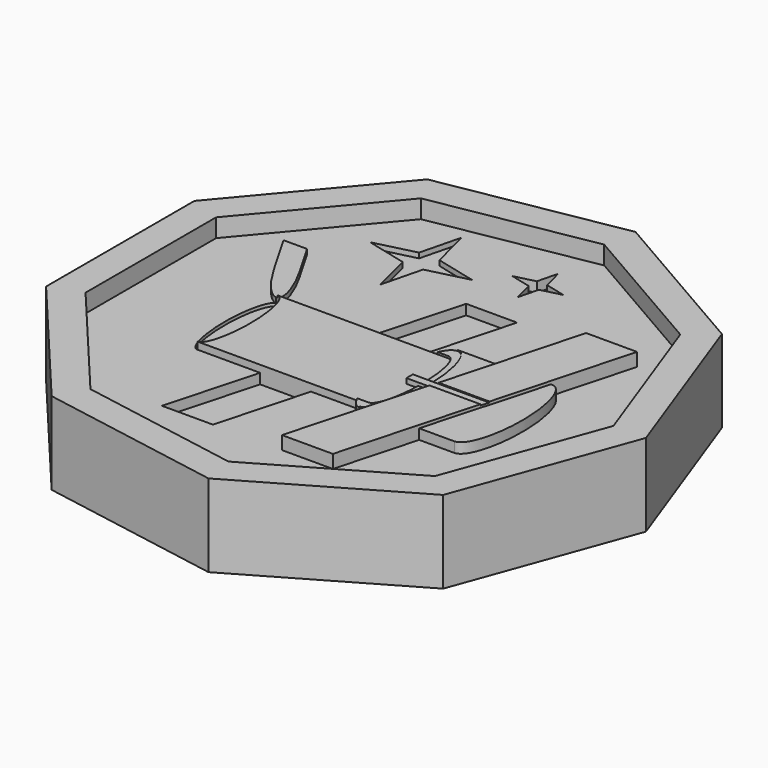
from build123d import *

# Parameters (mm, degrees)
F2_DEPTH  = 6.35
F4_DEPTH  = 2.54
F5_DEPTH  = 1.778
F6_DEPTH  = 1.27
F7_DEPTH  = 3.302
F8_DEPTH  = 3.048
F9_DEPTH  = 0.762
F10_DEPTH = 2.54
F11_DEPTH = 2.286
F14_DEPTH = 4.572
F15_DEPTH = 1.27
F17_DEPTH = 2.54
F18_DEPTH = 5.08
F20_DEPTH = 4.572
F22_DEPTH = 2.54
F23_DEPTH = 1.524
F25_DEPTH = 1.27
F26_DEPTH = 0.3556
F27_DEPTH = 0.635
F24_R     = 1.8594849194
F24_R_2   = 1.5216948933
F24_R_3   = 3.4180664258
F24_R_4   = 1.7040615752
F28_DEPTH = 3.81


with BuildPart() as f2:
    # F1 (on face) → F2 (new body)
    with BuildSketch(Plane.XY):
        Polygon((-33.7876442761, 58.5219165543), (-63.5, 23.1121098759), (-63.5, -23.1121098759), (-33.7876442761, -58.5219165543), (11.7343257124, -66.5486680783), (51.7656742876, -43.4365582024), (67.5752885522, 0), (51.7656742876, 43.4365582024), (11.7343257124, 66.5486680783), align=None)
        Polygon((-30.7581871748, -53.2747429355), (-57.8064830338, -21.0398391719), (-57.8064830338, 21.0398391719), (-30.7581871748, 53.2747429355), (10.6822063025, 60.5818023967), (47.1242767313, 39.5419632248), (61.5163743496, 0), (47.1242767313, -39.5419632248), (10.6822063025, -60.5818023967), align=None, mode=Mode.SUBTRACT)
        Polygon((-57.8064830338, 21.0398391719), (-57.8064830338, -21.0398391719), (-30.7581871748, -53.2747429355), (10.6822063025, -60.5818023967), (47.1242767313, -39.5419632248), (61.5163743496, 0), (47.1242767313, 39.5419632248), (10.6822063025, 60.5818023967), (-30.7581871748, 53.2747429355), align=None)
    extrude(amount=F2_DEPTH)

    # F3 (on face) → F4 (cut)
    with BuildSketch(Plane.XY.offset(6.35)):
        Polygon((-0.575308688, 29.1460640224), (-6.7951565992, 6.3466439275), (5.9048434008, 6.3466439275), (12.124691312, 29.1460640224), align=None)
        Polygon((-1.0249148999, -18.6374719584), (-13.7249148999, -18.6374719584), (-19.9447628111, -41.4368920532), (-7.2447628111, -41.4368920532), align=None)
    extrude(amount=-F4_DEPTH, mode=Mode.SUBTRACT)

    # F3 (on face) → F5 (join)
    with BuildSketch(Plane.XY.offset(6.35)):
        with BuildLine():
            add(Edge.make_bspline(
                [(-29.3351506789, -18.6374719584), (-26.1137671789, -18.6374719584), (-26.1137671789, -6.1454140154), (-26.1137671789, 6.3466439275), (-29.3351506789, 6.3466439275)],
                knots=[0, 0, 0, 1.5707963268, 1.5707963268, 3.1415926536, 3.1415926536, 3.1415926536], degree=2, weights=[1, 0.7071067812, 1, 0.7071067812, 1]))
            Line((-29.3351506789, -18.6374719584), (-13.7249148999, -18.6374719584))
            Line((-13.7249148999, -18.6374719584), (-1.0249148999, -18.6374719584))
            Line((-1.0249148999, -18.6374719584), (10.5309510918, -18.6374719584))
            Line((10.5309510918, -18.6374719584), (13.2900151665, -18.6374719584))
            add(Edge.make_bspline(
                [(13.2900151665, -18.6374719584), (16.262680817, -18.6374719584), (16.5010272671, -7.1470193138)],
                knots=[0, 0, 0, 1.4905308017, 1.4905308017, 1.4905308017], degree=2, weights=[1, 0.7349079422, 1]))
            Line((16.5010272671, -7.1470193138), (13.5657261126, -7.1470193138))
            Line((13.5657261126, -7.1470193138), (13.5657261126, -5.143808717))
            Line((13.5657261126, -5.143808717), (16.5010272671, -5.143808717))
            add(Edge.make_bspline(
                [(16.5010272671, -5.143808717), (16.262680817, 6.3466439275), (13.2900151665, 6.3466439275)],
                knots=[1.6510618519, 1.6510618519, 1.6510618519, 3.1415926536, 3.1415926536, 3.1415926536], degree=2, weights=[1, 0.7349079422, 1]))
            Line((13.2900151665, 6.3466439275), (10.5309510918, 6.3466439275))
            Line((10.5309510918, 6.3466439275), (5.9048434008, 6.3466439275))
            Line((5.9048434008, 6.3466439275), (-6.7951565992, 6.3466439275))
            Line((-6.7951565992, 6.3466439275), (-29.2752419632, 6.3466439275))
            Line((-29.2752419632, 6.3466439275), (-29.3351506789, 6.3466439275))
        make_face()
    extrude(amount=F5_DEPTH)

    # F3 (on face) → F6 (join)
    with BuildSketch(Plane.XY.offset(6.35)):
        with BuildLine():
            add(Edge.make_bspline(
                [(-29.3351506789, 6.3466439275), (-29.5281965738, 6.3466439275), (-29.7198609079, 6.2572427097)],
                knots=[3.1415926536, 3.1415926536, 3.1415926536, 3.261302278, 3.261302278, 3.261302278], degree=2, weights=[1, 0.9982092355, 1]))
            Line((-29.3351506789, 6.3466439275), (-29.2752419632, 6.3466439275))
            add(Edge.make_bspline(
                [(-29.2752419632, 6.3466439275), (-27.1553323099, 7.7032604551), (-32.8125827953, 17.501905727)],
                knots=[0.0101561284, 0.0101561284, 0.0101561284, 1.5707963268, 1.5707963268, 1.5707963268], degree=2, weights=[1, 0.7106883824, 1]))
            Line((-32.8125827953, 17.501905727), (-37.6961131116, 25.9604283551))
            Line((-37.6961131116, 25.9604283551), (-43.5619918466, 25.9604283551))
            Line((-43.5619918466, 25.9604283551), (-37.2119918466, 14.961905727))
            add(Edge.make_bspline(
                [(-37.2119918466, 14.961905727), (-32.3439342064, 6.53018256), (-29.7198609079, 6.2572427097)],
                knots=[4.7123889804, 4.7123889804, 4.7123889804, 6.1234694248, 6.1234694248, 6.1234694248], degree=2, weights=[1, 0.7612613584, 1]))
        make_face()
    extrude(amount=F6_DEPTH)

    # F3 (on face) → F7 (join)
    with BuildSketch(Plane.XY.offset(6.35)):
        Polygon((29.3351253495, 29.1460640224), (23.8649360521, 9.0945859846), (19.9805982411, -5.143808717), (32.6805982411, -5.143808717), (36.5649360521, 9.0945859846), (42.0351253495, 29.1460640224), align=None)
        Polygon((17.3314778068, -14.4368558845), (16.4729577901, -17.583839348), (15.4358605238, -21.3854140154), (9.9656712264, -41.4368920532), (22.6656712264, -41.4368920532), (28.1358605238, -21.3854140154), (32.0201983348, -7.1470193138), (19.3201983348, -7.1470193138), align=None)
    extrude(amount=F7_DEPTH)

    # F3 (on face) → F8 (join)
    with BuildSketch(Plane.XY.offset(6.35)):
        Polygon((13.5657261126, -7.1470193138), (16.5010272671, -7.1470193138), (18.0963269665, -7.1470193138), (19.3201983348, -7.1470193138), (32.0201983348, -7.1470193138), (32.6805982411, -5.143808717), (19.9805982411, -5.143808717), (18.0963269665, -5.143808717), (16.5010272671, -5.143808717), (13.5657261126, -5.143808717), align=None)
    extrude(amount=F8_DEPTH)

    # F3 (on face) → F9 (cut)
    with BuildSketch(Plane.XY.offset(6.35)):
        with BuildLine():
            add(Edge.make_bspline(
                [(-29.7198609079, 6.2572427097), (-32.7322635067, 4.8521171172), (-32.5507654395, -6.8926774206), (-32.3692673723, -18.6374719584), (-29.3351506789, -18.6374719584)],
                knots=[3.261302278, 3.261302278, 3.261302278, 4.7722437926, 4.7722437926, 6.2831853072, 6.2831853072, 6.2831853072], degree=2, weights=[1, 0.7279488579, 1, 0.7279488579, 1]))
            add(Edge.make_bspline(
                [(-29.3351506789, -18.6374719584), (-26.1137671789, -18.6374719584), (-26.1137671789, -6.1454140154), (-26.1137671789, 6.3466439275), (-29.3351506789, 6.3466439275)],
                knots=[0, 0, 0, 1.5707963268, 1.5707963268, 3.1415926536, 3.1415926536, 3.1415926536], degree=2, weights=[1, 0.7071067812, 1, 0.7071067812, 1]))
            add(Edge.make_bspline(
                [(-29.3351506789, 6.3466439275), (-29.5281965738, 6.3466439275), (-29.7198609079, 6.2572427097)],
                knots=[3.1415926536, 3.1415926536, 3.1415926536, 3.261302278, 3.261302278, 3.261302278], degree=2, weights=[1, 0.9982092355, 1]))
        make_face()
    extrude(amount=-F9_DEPTH, mode=Mode.SUBTRACT)

    # F3 (on face) → F10 (join)
    with BuildSketch(Plane.XY.offset(6.35)):
        with BuildLine():
            Line((23.8649360521, 9.0945859846), (13.2900151665, 9.0945859846))
            add(Edge.make_bspline(
                [(18.0963269665, -5.143808717), (17.7999260089, 9.0945859846), (13.2900151665, 9.0945859846)],
                knots=[1.6365658648, 1.6365658648, 1.6365658648, 3.1415926536, 3.1415926536, 3.1415926536], degree=2, weights=[1, 0.7299733325, 1]))
            Line((18.0963269665, -5.143808717), (19.9805982411, -5.143808717))
            Line((19.9805982411, -5.143808717), (23.8649360521, 9.0945859846))
        make_face()
        with BuildLine():
            Line((32.6805982411, -5.143808717), (32.0201983348, -7.1470193138))
            Line((32.0201983348, -7.1470193138), (28.1358605238, -21.3854140154))
            Line((28.1358605238, -21.3854140154), (36.9153190381, -21.3854140154))
            add(Edge.make_bspline(
                [(36.9153190381, -21.3854140154), (41.7320447752, -21.3854140154), (41.7320447752, -6.1454140154), (41.7320447752, 9.0945859846), (36.9153190381, 9.0945859846)],
                knots=[0, 0, 0, 1.5707963268, 1.5707963268, 3.1415926536, 3.1415926536, 3.1415926536], degree=2, weights=[1, 0.7071067812, 1, 0.7071067812, 1]))
            Line((36.9153190381, 9.0945859846), (36.5649360521, 9.0945859846))
            Line((36.5649360521, 9.0945859846), (32.6805982411, -5.143808717))
        make_face()
        with BuildLine():
            add(Edge.make_bspline(
                [(17.3314778068, -14.4368558845), (18.0138914686, -11.1070239191), (18.0963269665, -7.1470193138)],
                knots=[0.9955304831, 0.9955304831, 0.9955304831, 1.5050267888, 1.5050267888, 1.5050267888], degree=2, weights=[1, 0.9677267923, 1]))
            Line((17.3314778068, -14.4368558845), (19.3201983348, -7.1470193138))
            Line((19.3201983348, -7.1470193138), (18.0963269665, -7.1470193138))
        make_face()
        with BuildLine():
            add(Edge.make_bspline(
                [(13.2900151665, -21.3854140154), (15.1082651186, -21.3854140154), (16.4729577901, -17.583839348)],
                knots=[0, 0, 0, 0.7218980307, 0.7218980307, 0.7218980307], degree=2, weights=[1, 0.9355620886, 1]))
            Line((13.2900151665, -21.3854140154), (15.4358605238, -21.3854140154))
            Line((15.4358605238, -21.3854140154), (16.4729577901, -17.583839348))
        make_face()
    extrude(amount=F10_DEPTH)

    # F3 (on face) → F11 (join)
    with BuildSketch(Plane.XY.offset(6.35)):
        with BuildLine():
            Line((13.2900151665, -18.6374719584), (10.5309510918, -18.6374719584))
            add(Edge.make_bspline(
                [(10.5309510918, -18.6374719584), (11.7737866708, -21.3854140154), (13.2900151665, -21.3854140154)],
                knots=[5.6732565726, 5.6732565726, 5.6732565726, 6.2831853072, 6.2831853072, 6.2831853072], degree=2, weights=[1, 0.9538576522, 1]))
            add(Edge.make_bspline(
                [(13.2900151665, -21.3854140154), (15.1082651186, -21.3854140154), (16.4729577901, -17.583839348)],
                knots=[0, 0, 0, 0.7218980307, 0.7218980307, 0.7218980307], degree=2, weights=[1, 0.9355620886, 1]))
            Line((16.4729577901, -17.583839348), (17.3314778068, -14.4368558845))
            add(Edge.make_bspline(
                [(17.3314778068, -14.4368558845), (18.0138914686, -11.1070239191), (18.0963269665, -7.1470193138)],
                knots=[0.9955304831, 0.9955304831, 0.9955304831, 1.5050267888, 1.5050267888, 1.5050267888], degree=2, weights=[1, 0.9677267923, 1]))
            Line((18.0963269665, -7.1470193138), (16.5010272671, -7.1470193138))
            add(Edge.make_bspline(
                [(13.2900151665, -18.6374719584), (16.262680817, -18.6374719584), (16.5010272671, -7.1470193138)],
                knots=[0, 0, 0, 1.4905308017, 1.4905308017, 1.4905308017], degree=2, weights=[1, 0.7349079422, 1]))
        make_face()
        with BuildLine():
            add(Edge.make_bspline(
                [(13.2900151665, 9.0945859846), (11.7737866708, 9.0945859846), (10.5309510918, 6.3466439275)],
                knots=[3.1415926536, 3.1415926536, 3.1415926536, 3.7515213882, 3.7515213882, 3.7515213882], degree=2, weights=[1, 0.9538576522, 1]))
            Line((10.5309510918, 6.3466439275), (13.2900151665, 6.3466439275))
            add(Edge.make_bspline(
                [(16.5010272671, -5.143808717), (16.262680817, 6.3466439275), (13.2900151665, 6.3466439275)],
                knots=[1.6510618519, 1.6510618519, 1.6510618519, 3.1415926536, 3.1415926536, 3.1415926536], degree=2, weights=[1, 0.7349079422, 1]))
            Line((16.5010272671, -5.143808717), (18.0963269665, -5.143808717))
            add(Edge.make_bspline(
                [(18.0963269665, -5.143808717), (17.7999260089, 9.0945859846), (13.2900151665, 9.0945859846)],
                knots=[1.6365658648, 1.6365658648, 1.6365658648, 3.1415926536, 3.1415926536, 3.1415926536], degree=2, weights=[1, 0.7299733325, 1]))
        make_face()
    extrude(amount=F11_DEPTH)

    # F13 (on face) → F14 (join)
    with BuildSketch(Plane.XY.offset(6.35)):
        Polygon((-63.5, 23.1121098759), (-63.5, -23.1121098759), (-33.7876442761, -58.5219165543), (11.7343257124, -66.5486680783), (51.7656742876, -43.4365582024), (67.5752885522, 0), (51.7656742876, 43.4365582024), (11.7343257124, 66.5486680783), (-33.7876442761, 58.5219165543), align=None)
        Polygon((-29.733126963, -51.4992865678), (-55.88, -20.3386566908), (-55.88, 20.3386566908), (-29.733126963, 51.4992865678), (10.3262066269, 58.5628279089), (45.5537933731, 38.2241712181), (59.466253926, 0), (45.5537933731, -38.2241712181), (10.3262066269, -58.5628279089), align=None, mode=Mode.SUBTRACT)
    extrude(amount=F14_DEPTH)

    # F12 (on face) → F15 (cut)
    with BuildSketch(Plane.XY.offset(6.35)):
        Polygon((-16.1347627026, 40.2687636828), (-18.6747627026, 50.4287636828), (-21.2147627026, 40.2687636828), (-31.3747627026, 37.7287636828), (-21.2147627026, 35.1887636828), (-18.6747627026, 25.0287636828), (-16.1347627026, 35.1887636828), (-5.9747627026, 37.7287636828), align=None)
    extrude(amount=-F15_DEPTH, mode=Mode.SUBTRACT)

    # F16 (on face) → F17 (cut)
    with BuildSketch(Plane.XY.offset(6.35)):
        Polygon((6.7856322196, 45.1514541161), (5.5156322196, 50.2314541161), (4.2456322196, 45.1514541161), (-0.8343677804, 43.8814541161), (4.2456322196, 42.6114541161), (5.5156322196, 37.5314541161), (6.7856322196, 42.6114541161), (11.8656322196, 43.8814541161), align=None)
    extrude(amount=-F17_DEPTH, mode=Mode.SUBTRACT)

    # F0 (on Top) → F18 (join)
    with BuildSketch(Plane.XY):
        Polygon((-63.5, 23.1121098759), (-63.5, -23.1121098759), (-33.7876442761, -58.5219165543), (11.7343257124, -66.5486680783), (51.7656742876, -43.4365582024), (67.5752885522, 0), (51.7656742876, 43.4365582024), (11.7343257124, 66.5486680783), (-33.7876442761, 58.5219165543), align=None)
    extrude(amount=-F18_DEPTH)

    # F19 (on face) → F20 (join)
    with BuildSketch(Plane(origin=(0, 0, -5.08), x_dir=(1, 0, 0), z_dir=(0, 0, -1))):
        Polygon((-63.5, 23.1121098759), (-63.5, -23.1121098759), (-33.7876442761, -58.5219165543), (11.7343257124, -66.5486680783), (51.7656742876, -43.4365582024), (67.5752885522, 0), (51.7656742876, 43.4365582024), (11.7343257124, 66.5486680783), (-33.7876442761, 58.5219165543), align=None)
        Polygon((-29.733126963, -51.4992865678), (-55.88, -20.3386566908), (-55.88, 20.3386566908), (-29.733126963, 51.4992865678), (10.3262066269, 58.5628279089), (45.5537933731, 38.2241712181), (59.466253926, 0), (45.5537933731, -38.2241712181), (10.3262066269, -58.5628279089), align=None, mode=Mode.SUBTRACT)
    extrude(amount=F20_DEPTH)

    # F21 (on face) → F22 (join)
    with BuildSketch(Plane(origin=(0, 0, -5.08), x_dir=(1, 0, 0), z_dir=(0, 0, -1))):
        with BuildLine():
            ThreePointArc((31.8901345212, -7.4977196574), (1.4726857261, 3.21900382), (-14.9398548296, -24.5424418521))
            ThreePointArc((-14.9398548296, -24.5424418521), (-14.6677769003, -26.0103103617), (-14.3099329971, -27.4596592162))
            ThreePointArc((-14.3099329971, -27.4596592162), (-13.7081952014, -29.3365003885), (-12.9627428451, -31.1610337384))
            add(Edge.make_bspline(
                [(-12.9627428451, -31.1610337384), (11.6417222676, -24.7201944554), (34.6299277302, -13.8387182798)],
                knots=[3.8815301896, 3.8815301896, 3.8815301896, 5.5432477711, 5.5432477711, 5.5432477711], degree=2, weights=[1, 0.6742417826, 1]))
            ThreePointArc((34.6299277302, -13.8387182798), (34.0281899345, -11.9618771075), (33.2827375782, -10.1373437575))
            ThreePointArc((33.2827375782, -10.1373437575), (32.6252384259, -8.7970604943), (31.8901345212, -7.4977196574))
        make_face()
        with BuildLine():
            add(Edge.make_bspline(
                [(-11.5701397881, -33.8006578386), (12.5295332709, -27.1594351399), (35.2598495627, -16.7559356439)],
                knots=[4.1448706342, 4.1448706342, 4.1448706342, 5.2799073266, 5.2799073266, 5.2799073266], degree=2, weights=[1, 0.8432375612, 1]))
            ThreePointArc((-11.5701397881, -33.8006578386), (18.847309007, -44.517381316), (35.2598495627, -16.7559356439))
        make_face()
    extrude(amount=F22_DEPTH)

    # F21 (on face) → F23 (join)
    with BuildSketch(Plane(origin=(0, 0, -5.08), x_dir=(1, 0, 0), z_dir=(0, 0, -1))):
        with BuildLine():
            add(Edge.make_bspline(
                [(-14.9398548296, -24.5424418521), (-70.8746488402, -50.1433879115), (-11.5701397881, -33.8006578386)],
                knots=[2.138314673, 2.138314673, 2.138314673, 4.1448706342, 4.1448706342, 4.1448706342], degree=2, weights=[1, 0.5375410824, 1]))
            add(Edge.make_bspline(
                [(-11.5701397881, -33.8006578386), (12.5295332709, -27.1594351399), (35.2598495627, -16.7559356439)],
                knots=[4.1448706342, 4.1448706342, 4.1448706342, 5.2799073266, 5.2799073266, 5.2799073266], degree=2, weights=[1, 0.8432375612, 1]))
            add(Edge.make_bspline(
                [(35.2598495627, -16.7559356439), (91.1946435733, 8.8450104155), (31.8901345212, -7.4977196574)],
                knots=[5.2799073266, 5.2799073266, 5.2799073266, 7.2864632878, 7.2864632878, 7.2864632878], degree=2, weights=[1, 0.5375410824, 1]))
            ThreePointArc((31.8901345212, -7.4977196574), (32.6252384259, -8.7970604943), (33.2827375782, -10.1373437575))
            add(Edge.make_bspline(
                [(34.6299277302, -13.8387182798), (53.7911336718, -4.7687538457), (33.2827375782, -10.1373437575)],
                knots=[5.5432477711, 5.5432477711, 5.5432477711, 7.0231228432, 7.0231228432, 7.0231228432], degree=2, weights=[1, 0.738510676, 1]))
            add(Edge.make_bspline(
                [(-12.9627428451, -31.1610337384), (11.6417222676, -24.7201944554), (34.6299277302, -13.8387182798)],
                knots=[3.8815301896, 3.8815301896, 3.8815301896, 5.5432477711, 5.5432477711, 5.5432477711], degree=2, weights=[1, 0.6742417826, 1]))
            add(Edge.make_bspline(
                [(-14.3099329971, -27.4596592162), (-33.4711389387, -36.5296236503), (-12.9627428451, -31.1610337384)],
                knots=[2.4016551176, 2.4016551176, 2.4016551176, 3.8815301896, 3.8815301896, 3.8815301896], degree=2, weights=[1, 0.738510676, 1]))
            ThreePointArc((-14.3099329971, -27.4596592162), (-14.6677769003, -26.0103103617), (-14.9398548296, -24.5424418521))
        make_face()
    extrude(amount=F23_DEPTH)

    # F24 (on face) → F25 (cut)
    with BuildSketch(Plane(origin=(0, 0, -5.08), x_dir=(1, 0, 0), z_dir=(0, 0, -1))):
        with BuildLine():
            Line((34.647584052, 27.4240245482), (40.4026384997, 30.1076505103))
            ThreePointArc((40.4026384997, 30.1076505103), (40.0836628932, 30.7060280267), (39.7026991912, 31.2669805627))
            Line((39.7026991912, 31.2669805627), (34.0785213831, 28.64438338))
            Line((34.0785213831, 28.64438338), (28.454343575, 26.0217861972))
            ThreePointArc((28.454343575, 26.0217861972), (28.6391794007, 25.3693777306), (28.8925296044, 24.7403985862))
            Line((28.8925296044, 24.7403985862), (34.647584052, 27.4240245482))
        make_face()
    extrude(amount=-F25_DEPTH, mode=Mode.SUBTRACT)

    # F24 (on face) → F26 (cut)
    with BuildSketch(Plane(origin=(0, 0, -5.08), x_dir=(1, 0, 0), z_dir=(0, 0, -1))):
        with BuildLine():
            Line((35.5791138173, 26.4472986586), (40.8251957779, 28.8935868521))
            ThreePointArc((40.8251957779, 28.8935868521), (40.6447182129, 29.5113390565), (40.4026384997, 30.1076505103))
            Line((40.4026384997, 30.1076505103), (34.647584052, 27.4240245482))
            Line((34.647584052, 27.4240245482), (28.8925296044, 24.7403985862))
            ThreePointArc((28.8925296044, 24.7403985862), (29.2079449145, 24.1479253353), (29.5841357044, 23.5920549723))
            Line((29.5841357044, 23.5920549723), (35.5791138173, 26.4472986586))
        make_face()
    extrude(amount=-F26_DEPTH, mode=Mode.SUBTRACT)

    # F24 (on face) → F27 (join)
    with BuildSketch(Plane(origin=(0, 0, -5.08), x_dir=(1, 0, 0), z_dir=(0, 0, -1))):
        with BuildLine():
            Line((34.0785213831, 28.64438338), (39.7026991912, 31.2669805627))
            ThreePointArc((39.7026991912, 31.2669805627), (31.96395809, 33.1790789959), (28.454343575, 26.0217861972))
            Line((28.454343575, 26.0217861972), (34.0785213831, 28.64438338))
        make_face()
        with BuildLine():
            ThreePointArc((29.5841357044, 23.5920549723), (36.6686732376, 21.4042489292), (40.997584052, 27.4240245482))
            ThreePointArc((40.997584052, 27.4240245482), (40.9543397338, 28.1638439657), (40.8251957779, 28.8935868521))
            Line((40.8251957779, 28.8935868521), (35.5791138173, 26.4472986586))
            Line((35.5791138173, 26.4472986586), (29.5841357044, 23.5920549723))
        make_face()
    extrude(amount=F27_DEPTH)

    # F24 (on face) → F28 (join)
    with BuildSketch(Plane(origin=(0, 0, -5.08), x_dir=(1, 0, 0), z_dir=(0, 0, -1))):
        with BuildLine():
            ThreePointArc((-2.0726782484, 14.0202780277), (-3.2213945308, 17.8160010105), (-1.3272086404, 21.3001252724))
            ThreePointArc((-1.3272086404, 21.3001252724), (-3.2661948887, 26.8684489354), (-7.1737165484, 31.2840089868))
            ThreePointArc((-7.1737165484, 31.2840089868), (-10.9528679886, 31.0847041559), (-13.2679953501, 34.078346306))
            ThreePointArc((-13.2679953501, 34.078346306), (-25.5450748555, 31.3713730957), (-31.610530453, 20.3593508682))
            ThreePointArc((-31.610530453, 20.3593508682), (-29.4395153831, 18.2101996927), (-31.2729945243, 15.7667366895))
            ThreePointArc((-31.2729945243, 15.7667366895), (-17.3270960263, 3.9544632052), (-2.0726782484, 14.0202780277))
        make_face()
        with Locations((-22.0478326082, 13.9277540147)):
            Circle(F24_R, mode=Mode.SUBTRACT)
        with Locations((-14.2164304852, 14.7108947858)):
            Circle(F24_R_2, mode=Mode.SUBTRACT)
        with Locations((-22.2992971539, 25.5921762437)):
            Circle(F24_R_3, mode=Mode.SUBTRACT)
        with Locations((-10.1888515055, 22.5982349366)):
            Circle(F24_R_4, mode=Mode.SUBTRACT)
    extrude(amount=F28_DEPTH)


solid = f2.part
